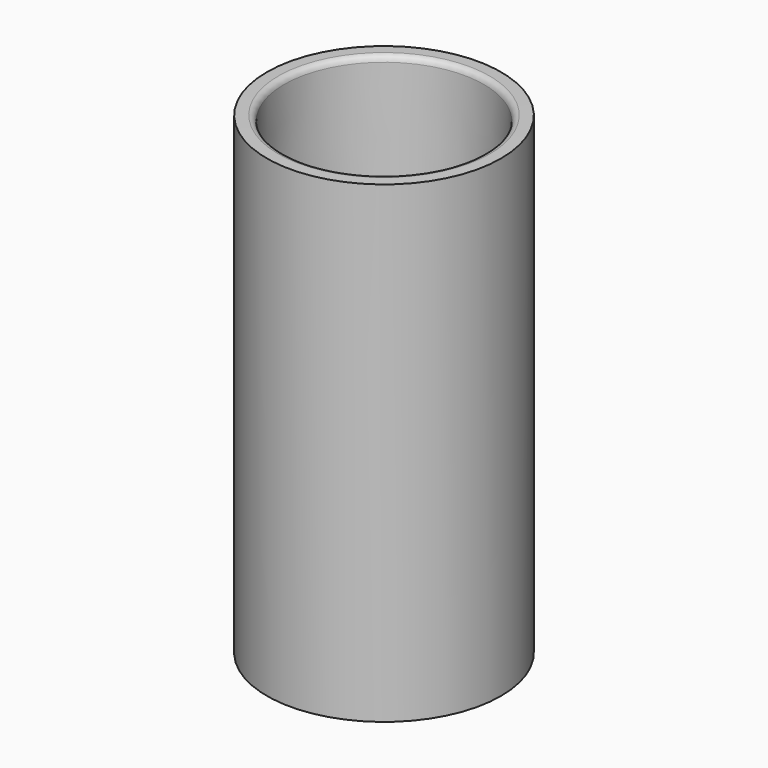
from build123d import *

# Parameters (mm, degrees)
F2_R = 1


with BuildPart() as f1:
    # F0 (on Front) → F1 (revolve)
    with BuildSketch(Plane.XZ):
        Polygon((17.75, 41.916901), (16.95, 0), (17.75, -42.123902), (20.773076, -42.123902), (20.773076, 41.859204), align=None)
    revolve(axis=Axis((0, 0, -6.72741), (0, 0, -1)))

    # F2
    f2_edges = [f1.edges().sort_by_distance(p)[0] for p in [
        (-17.75, 0, 41.916901),
        (-17.75, 0, -42.123902),
    ]]
    fillet(f2_edges, radius=F2_R)


solid = f1.part
